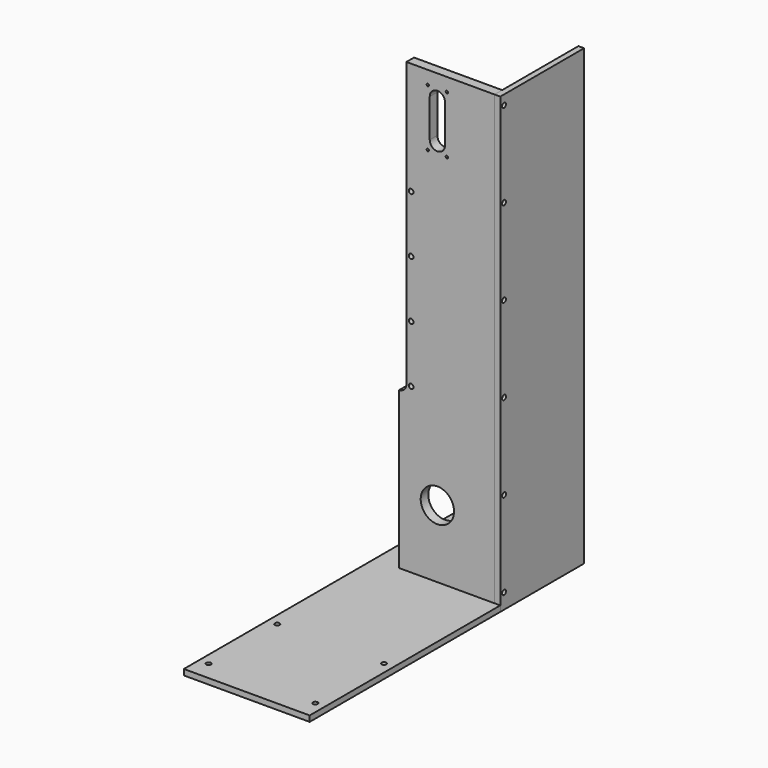
from build123d import *

# Parameters (mm, degrees)
F0_W      = 100
F0_H      = 470
F1_DEPTH  = 10
F2_R      = 17.5
F2_W      = 16
F2_H      = 40
F2_R_2    = 1.25
F3_DEPTH  = 25
F5_DEPTH  = 25
F6_R      = 2.5
F7_DEPTH  = 25
F8_W      = 10
F8_H      = 200
F9_DEPTH  = 100
F10_R     = 2
F11_DEPTH = 15
F12_R     = 2.5
F13_DEPTH = 20
F14_W     = 132
F14_H     = 360
F14_W_2   = 100
F14_H_2   = 10
F15_DEPTH = 6
F16_R     = 3
F17_DEPTH = 25
F18_SIZE2 = 3
F18_SIZE  = 3
F19_R     = 2.5
F20_DEPTH = 25
F21_W     = 6
F21_H     = 110
F22_DEPTH = 25
F23_W     = 10
F23_H     = 470
F24_DEPTH = 6
F25_R     = 2.5
F26_DEPTH = 25


with BuildPart() as f1:
    # F0 (on Front) → F1 (new body)
    with BuildSketch(Plane.XZ):
        Rectangle(F0_W, F0_H)
    extrude(amount=F1_DEPTH)

    # F2 (on face) → F3 (cut)
    with BuildSketch(Plane.XZ.offset(10)):
        with Locations((-10, -164)):
            Circle(F2_R)
        with Locations((-10, 191)):
            Rectangle(F2_W, F2_H)
        with BuildLine():
            Line((-2, 171), (-18, 171))
            ThreePointArc((-18, 171), (-10, 163), (-2, 171))
        make_face()
        with BuildLine():
            ThreePointArc((-2, 211), (-10, 219), (-18, 211))
            Line((-18, 211), (-2, 211))
        make_face()
        with Locations((0, 221)):
            Circle(F2_R_2)
        with Locations((0, 161)):
            Circle(F2_R_2)
        with Locations((-20, 221)):
            Circle(F2_R_2)
        with Locations((-20, 161)):
            Circle(F2_R_2)
    extrude(amount=-F3_DEPTH, mode=Mode.SUBTRACT)

    # F4 (on face) → F5 (cut)
    with BuildSketch(Plane.XZ.offset(10)):
        with BuildLine():
            ThreePointArc((-50, -70.5), (-44.6966991411, -68.3033008589), (-42.5, -63))
            Line((-42.5, -63), (-42.5, 235))
            Line((-42.5, 235), (-50, 235))
            Line((-50, 235), (-50, -70.5))
        make_face()
    extrude(amount=-F5_DEPTH, mode=Mode.SUBTRACT)

    # F6 (on face) → F7 (cut)
    with BuildSketch(Plane.XZ.offset(10)):
        with Locations((-37.5, -63)):
            Circle(F6_R)
        with Locations((-37.5, -3)):
            Circle(F6_R)
        with Locations((-37.5, 57)):
            Circle(F6_R)
        with Locations((-37.5, 117)):
            Circle(F6_R)
    extrude(amount=-F7_DEPTH, mode=Mode.SUBTRACT)

    # F12 (on face) → F13 (cut)
    with BuildSketch(Plane(origin=(0, 0, -235), x_dir=(1, 0, 0), z_dir=(0, 0, -1))):
        with Locations((-20, 5)):
            Circle(F12_R)
        with Locations((20, 5)):
            Circle(F12_R)
    extrude(amount=-F13_DEPTH, mode=Mode.SUBTRACT)


with BuildPart() as f9:
    # F8 (on face) → F9 (new body)
    with BuildSketch(Plane(origin=(0, 0, 0), x_dir=(-1, 0, 0), z_dir=(0, 1, 0))):
        with Locations((37.5, 27)):
            Rectangle(F8_W, F8_H)
    extrude(amount=F9_DEPTH)

    # F10 (on face) → F11 (cut)
    with BuildSketch(Plane.XZ):
        with Locations((-37.5, 117)):
            Circle(F10_R)
        with Locations((-37.5, 57)):
            Circle(F10_R)
        with Locations((-37.5, -3)):
            Circle(F10_R)
        with Locations((-37.5, -63)):
            Circle(F10_R)
    extrude(amount=-F11_DEPTH, mode=Mode.SUBTRACT)


with BuildPart() as f15:
    # F14 (on face) → F15 (new body)
    with BuildSketch(Plane(origin=(0, 0, -235), x_dir=(1, 0, 0), z_dir=(0, 0, -1))):
        with Locations((-10, 80)):
            Rectangle(F14_W, F14_H)
        with Locations((0, 5)):
            Rectangle(F14_W_2, F14_H_2, mode=Mode.SUBTRACT)
        with Locations((-10, 80)):
            Rectangle(F14_W, F14_H)
    extrude(amount=F15_DEPTH)

    # F16 (on face) → F17 (cut)
    with BuildSketch(Plane.XY.offset(-235)):
        with Locations((20, -5)):
            Circle(F16_R)
        with Locations((-20, -5)):
            Circle(F16_R)
    extrude(amount=-F17_DEPTH, mode=Mode.SUBTRACT)

    # F18
    f18_edges = [f15.edges().sort_by_distance(p)[0] for p in [
        (-23, -5, -241),
        (17, -5, -241),
    ]]
    chamfer(f18_edges, length=F18_SIZE, length2=F18_SIZE2)

    # F19 (on face) → F20 (cut)
    with BuildSketch(Plane.XY.offset(-235)):
        with Locations((-66, -240)):
            Circle(F19_R)
        with Locations((-66, -150)):
            Circle(F19_R)
        with Locations((46, -150)):
            Circle(F19_R)
        with Locations((46, -240)):
            Circle(F19_R)
    extrude(amount=-F20_DEPTH, mode=Mode.SUBTRACT)

    # F21 (on face) → F22 (cut)
    with BuildSketch(Plane.XY.offset(-235)):
        with Locations((53, 45)):
            Rectangle(F21_W, F21_H)
    extrude(amount=-F22_DEPTH, mode=Mode.SUBTRACT)


with BuildPart() as f24:
    # F23 (on face) → F24 (new body)
    with BuildSketch(Plane.YZ.offset(50)):
        Polygon((-10, -235), (-10, -241), (100, -241), (100, 235), (0, 235), (0, -235), align=None)
        with Locations((-5, 0)):
            Rectangle(F23_W, F23_H)
    extrude(amount=F24_DEPTH)


with BuildPart() as f26_tool:
    # F25 (on face) → F26 (new body)
    with BuildSketch(Plane.YZ.offset(56)):
        with Locations((-5, 225)):
            Circle(F25_R)
        with Locations((-5, 135)):
            Circle(F25_R)
        with Locations((-5, 45)):
            Circle(F25_R)
        with Locations((-5, -45)):
            Circle(F25_R)
        with Locations((-5, -135)):
            Circle(F25_R)
        with Locations((-5, -225)):
            Circle(F25_R)
    extrude(amount=-F26_DEPTH)


with BuildPart() as f1_1:
    add(f1.part)

    # F26: cut by f26_tool
    add(f26_tool.part, mode=Mode.SUBTRACT)


with BuildPart() as f24_1:
    add(f24.part)

    # F26: cut by f26_tool
    add(f26_tool.part, mode=Mode.SUBTRACT)


solid = Compound([f9.part, f15.part, f1_1.part, f24_1.part])
